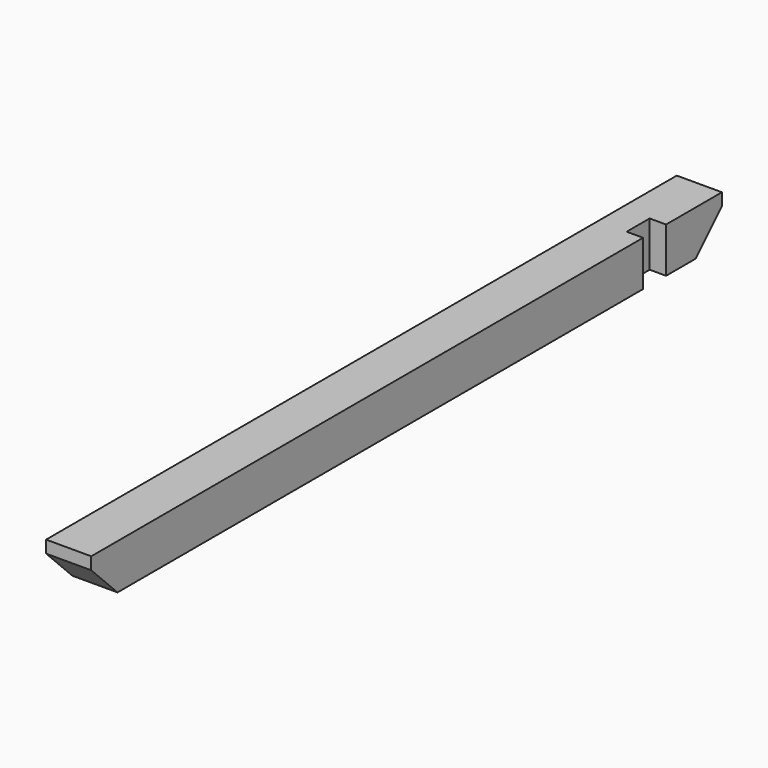
from build123d import *

# Parameters (mm, degrees)
F0_W     = 139.7
F0_H     = 139.7
F1_DEPTH = 1219.2
F2_SIZE  = 101.6
F3_W     = 88.9
F3_H     = 139.7
F4_DEPTH = 50.8


with BuildPart() as f1:
    # F0 (on Front) → F1 (new body, symmetric)
    with BuildSketch(Plane.XZ):
        Rectangle(F0_W, F0_H)
    extrude(amount=F1_DEPTH, both=True)

    # F2
    f2_edges = [f1.edges().sort_by_distance(p)[0] for p in [
        (0, -1219.2, -69.85),
        (0, 1219.2, -69.85),
    ]]
    chamfer(f2_edges, length=F2_SIZE)

    # F3 (on face) → F4 (cut)
    with BuildSketch(Plane.YZ.offset(69.85)):
        with Locations((958.85, 0)):
            Rectangle(F3_W, F3_H)
    extrude(amount=-F4_DEPTH, mode=Mode.SUBTRACT)


solid = f1.part
